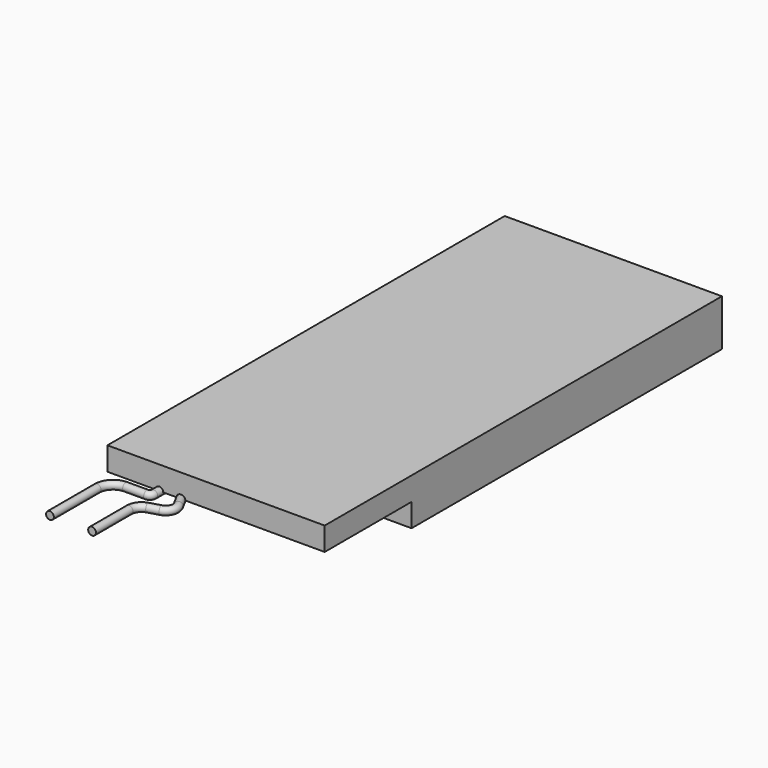
from build123d import *

# Parameters (mm, degrees)
SKETCH021_W             = 14
SKETCH021_H             = 25
PAD015_DEPTH            = 3
SKETCH022_W             = 14
SKETCH022_H             = 7
PAD016_DEPTH            = 1.5
SKETCH023_W             = 1.8
SKETCH023_H             = 4
PAD017_DEPTH            = 1
SKETCH025_R             = 0.25
SKETCH027_R             = 0.25
BODY006_PLACEMENT_ANGLE = 180


with BuildPart() as part:
    # Sketch021 → Pad015 (new body)
    with BuildSketch(Plane.XY):
        Rectangle(SKETCH021_W, SKETCH021_H)
    extrude(amount=PAD015_DEPTH)

    # Sketch022 (on Face5 of Pad015) → Pad016 (join)
    with BuildSketch(Plane(origin=(0, 0, 0), x_dir=(1, 0, 0), z_dir=(0, 0, -1))):
        with Locations((0, 16)):
            Rectangle(SKETCH022_W, SKETCH022_H)
    extrude(amount=-PAD016_DEPTH)

    # Sketch023 (on Face11 of Pad016) → Pad017 (join)
    with BuildSketch(Plane.XY.offset(1.5)):
        with Locations((-3.5, -16)):
            Rectangle(SKETCH023_W, SKETCH023_H)
        with Locations((3.5, -16)):
            Rectangle(SKETCH023_W, SKETCH023_H)
    extrude(amount=PAD017_DEPTH)

    # AdditivePipe002: sweep along a path in Sketch024
    with BuildLine(Plane.XY.offset(1.5)) as additivepipe002_path:
        Line((3.652698, -18), (3.652698, -19.955732))
        ThreePointArc((3.652698, -19.955732), (3.7255554811, -20.1316255189), (3.901449, -20.204483))
        Line((3.901449, -20.204483), (5.252995, -20.204483))
        ThreePointArc((5.252995, -20.204483), (5.9787998058, -20.5051211942), (6.279438, -21.230926))
        Line((6.279438, -21.230926), (6.279438, -25.029842))
    # Sketch025 (on DatumPlane) → AdditivePipe002 (sweep)
    with BuildSketch(Plane(origin=(6.279438, -25.029842, 1.5), x_dir=(1, 0, 0), z_dir=(0, -1, 0))):
        Circle(SKETCH025_R)
    sweep(path=additivepipe002_path.line)

    # AdditivePipe003: sweep along a path in Sketch026
    with BuildLine(Plane.XY.offset(1.5)) as additivepipe003_path:
        Line((3.079145, -18), (1.9054359958, -20.158635665))
        ThreePointArc((1.9054359958, -20.158635665), (1.8760598704, -20.7128173949), (2.2882507497, -21.0844072569))
        Line((2.2882507497, -21.0844072569), (2.9810609114, -21.2900849643))
        ThreePointArc((2.9810609114, -21.2900849643), (3.3955781518, -21.5792681435), (3.554832, -22.0589447695))
        Line((3.554832, -22.0589447695), (3.554832, -25.04393))
    # Sketch027 (on DatumPlane) → AdditivePipe003 (sweep)
    with BuildSketch(Plane(origin=(3.554832, -25.04393, 1.5), x_dir=(1, 0, 0), z_dir=(0, -1, 0))):
        Circle(SKETCH027_R)
    sweep(path=additivepipe003_path.line)


with BuildPart() as part_1:
    # Body006 placement: moved
    add(part.part.moved(Location((-30.7, 3.7, 19.9))).rotate(Axis((-30.7, 3.7, 19.9), (0, 1, 0)), BODY006_PLACEMENT_ANGLE))


solid = part_1.part
